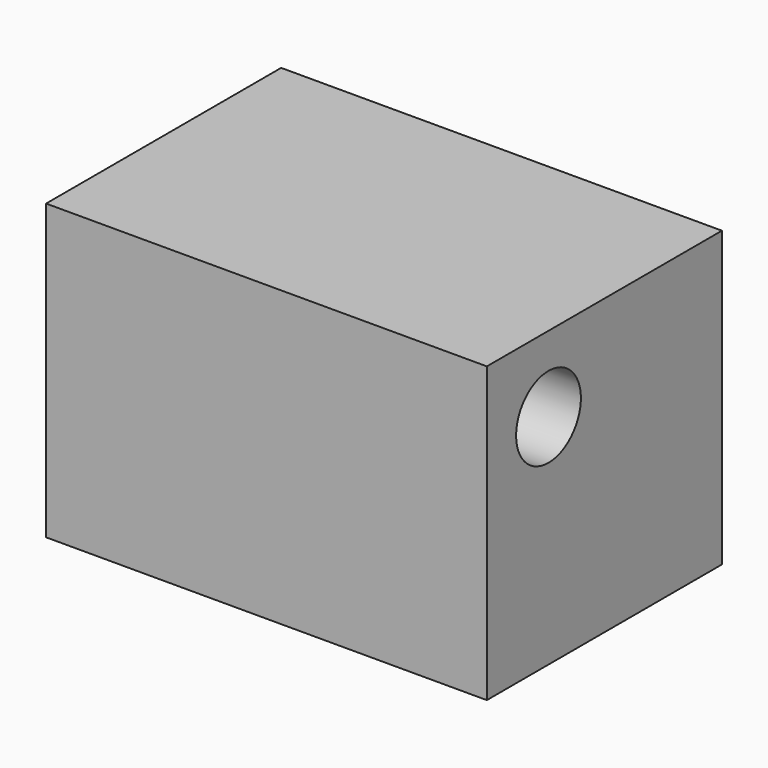
from build123d import *

# Parameters (mm, degrees)
F0_W     = 38.1
F0_H     = 25.4
F1_DEPTH = 25.4
F3_D     = 7


with BuildPart() as f1:
    # F0 (on Top) → F1 (new body)
    with BuildSketch(Plane.XY):
        with Locations((19.05, 12.7)):
            Rectangle(F0_W, F0_H)
    extrude(amount=F1_DEPTH)

    # F3 (through all)
    with Locations(Plane.YZ.offset(38.1)):
        with Locations((6.66, 18.852)):
            Hole(F3_D / 2)


solid = f1.part
